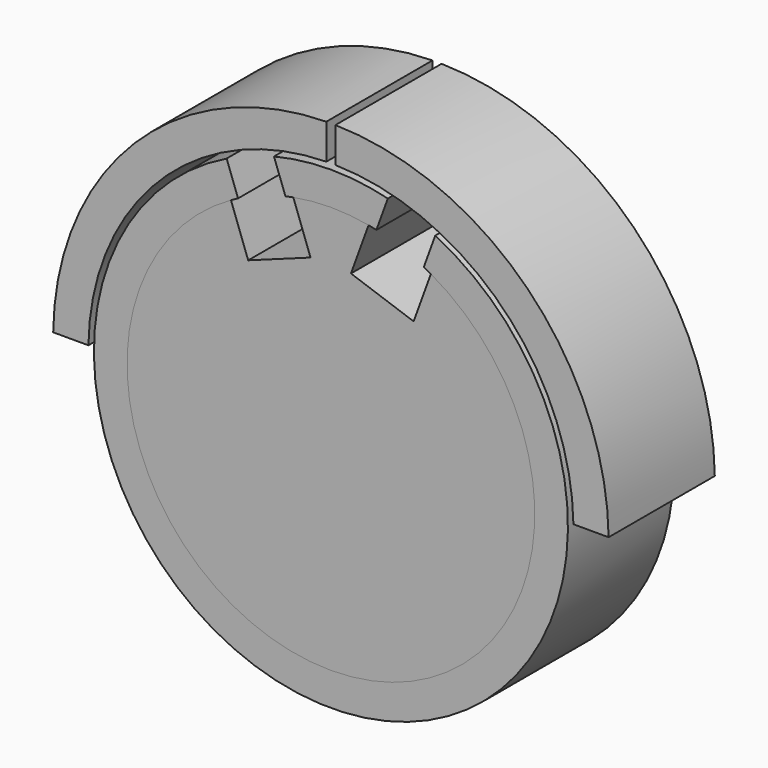
from build123d import *

# Parameters (mm, degrees)
F1_DEPTH = 25.4
F3_DEPTH = 25.4
F5_DEPTH = 25.4
F6_DEPTH = 25.4


with BuildPart() as f1:
    # F0 (on Front) → F1 (new body)
    with BuildSketch(Plane.XZ):
        with BuildLine():
            ThreePointArc((-8.707147, 38.032969), (-7.954928, 38.197385), (-7.199611, 38.346926))
            ThreePointArc((-7.199611, 38.346926), (0.000315, 39.016934), (7.20023, 38.34681))
            ThreePointArc((7.20023, 38.34681), (7.955236, 38.197321), (8.707147, 38.032969))
            Line((8.707147, 38.032969), (10.892535, 44.037274))
            ThreePointArc((10.892535, 44.037274), (0, 45.3644), (-10.892535, 44.037274))
            Line((-10.892535, 44.037274), (-8.707147, 38.032969))
        make_face()
        with BuildLine():
            Line((-17.77706, 34.731791), (-19.962448, 40.736095))
            ThreePointArc((-19.962448, 40.736095), (0, -45.3644), (19.962448, 40.736095))
            Line((19.962448, 40.736095), (17.77706, 34.731791))
            ThreePointArc((17.77706, 34.731791), (18.4587, 34.374373), (19.133158, 34.003579))
            ThreePointArc((19.133158, 34.003579), (0.000315, -39.016934), (-19.133707, 34.00327))
            ThreePointArc((-19.133707, 34.00327), (-18.458978, 34.374224), (-17.77706, 34.731791))
        make_face()
    extrude(amount=F1_DEPTH)


with BuildPart() as f3:
    # F2 (on face) → F3 (new body)
    with BuildSketch(Plane.XZ):
        with BuildLine():
            Line((-3.898432, 29.277013), (-15.832529, 24.933357))
            Line((-15.832529, 24.933357), (-19.133707, 34.00327))
            ThreePointArc((-19.133707, 34.00327), (0.000315, -39.016934), (19.133158, 34.003579))
            Line((19.133158, 34.003579), (15.83198, 24.933666))
            Line((15.83198, 24.933666), (3.838281, 29.10993))
            Line((3.838281, 29.10993), (7.20023, 38.34681))
            ThreePointArc((7.20023, 38.34681), (0.000315, 39.016934), (-7.199611, 38.346926))
            Line((-7.199611, 38.346926), (-3.898432, 29.277013))
        make_face()
    extrude(amount=F3_DEPTH)


with BuildPart() as f5:
    # F4 (on face) → F5 (new body)
    with BuildSketch(Plane.XZ.offset(25.4)):
        with BuildLine():
            ThreePointArc((-46.415114, 0.660894), (-32.901321, 32.746033), (-0.880474, 46.411468))
            Line((-0.880474, 46.411468), (-0.880474, 53.151636))
            ThreePointArc((-0.880474, 53.151636), (-37.6666, 37.511317), (-53.15482, 0.660894))
            Line((-53.15482, 0.660894), (-46.415114, 0.660894))
        make_face()
    extrude(amount=-F5_DEPTH)


with BuildPart() as f6:
    # F4 (on face) → F6 (new body)
    with BuildSketch(Plane.XZ.offset(25.4)):
        with BuildLine():
            ThreePointArc((53.154275, 0.703382), (37.644585, 37.53341), (0.86059, 53.151962))
            Line((0.86059, 53.151962), (0.86059, 46.411841))
            ThreePointArc((0.86059, 46.411841), (32.879311, 32.768133), (46.41449, 0.703382))
            Line((46.41449, 0.703382), (53.154275, 0.703382))
        make_face()
    extrude(amount=-F6_DEPTH)


solid = Compound([f1.part, f3.part, f5.part, f6.part])
